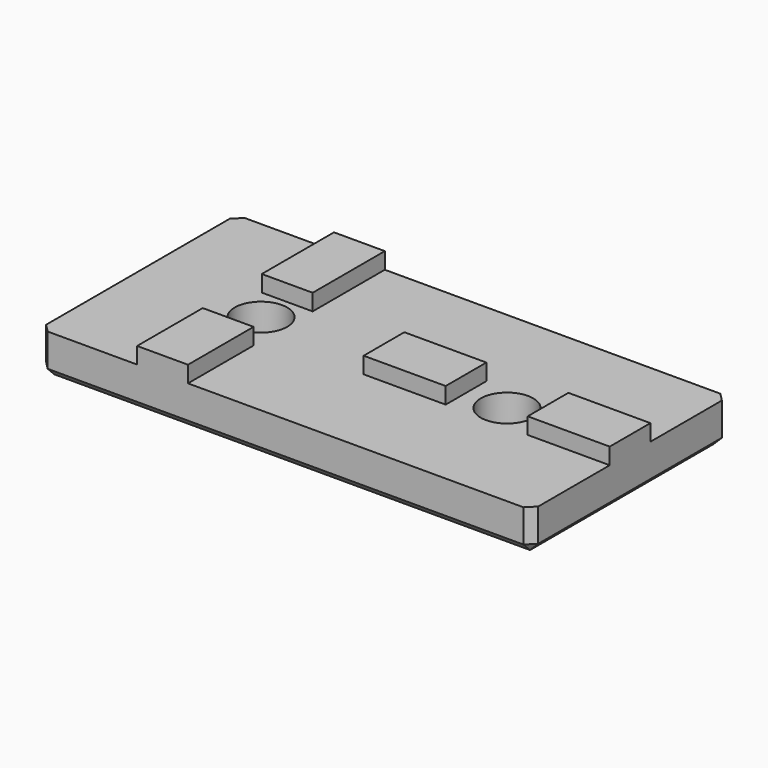
from build123d import *

# Parameters (mm, degrees)
BOX001_W          = 6.2
BOX001_H          = 10
BOX001_DEPTH      = 3
BOX004_W          = 10
BOX004_H          = 6.2
BOX004_DEPTH      = 3
BOX003_W          = 10
BOX003_H          = 6.2
BOX003_DEPTH      = 3
BOX002_W          = 6.2
BOX002_H          = 11
BOX002_DEPTH      = 3
CYLINDER001_R     = 3.2
CYLINDER001_DEPTH = 10
CYLINDER002_R     = 7
CYLINDER002_DEPTH = 1
CYLINDER003_R     = 7
CYLINDER003_DEPTH = 1
CYLINDER_R        = 3.2
CYLINDER_DEPTH    = 10
BOX_W             = 60
BOX_H             = 30
BOX_DEPTH         = 5
CHAMFER_SIZE      = 1


with BuildPart() as cube001:
    # Box001 → Box001 (new body)
    with BuildSketch(Plane(origin=(11.9, 0, 4), x_dir=(1, 0, 0), z_dir=(0, 0, 1))):
        with Locations((3.1, 5)):
            Rectangle(BOX001_W, BOX001_H)
    extrude(amount=BOX001_DEPTH)


with BuildPart() as cube004:
    # Box004 → Box004 (new body)
    with BuildSketch(Plane(origin=(30, 11.9, 4), x_dir=(1, 0, 0), z_dir=(0, 0, 1))):
        with Locations((5, 3.1)):
            Rectangle(BOX004_W, BOX004_H)
    extrude(amount=BOX004_DEPTH)


with BuildPart() as cube003:
    # Box003 → Box003 (new body)
    with BuildSketch(Plane(origin=(50, 11.9, 4), x_dir=(1, 0, 0), z_dir=(0, 0, 1))):
        with Locations((5, 3.1)):
            Rectangle(BOX003_W, BOX003_H)
    extrude(amount=BOX003_DEPTH)


with BuildPart() as fusion001:
    # Box002 → Box002 (new body)
    with BuildSketch(Plane(origin=(11.9, 19, 4), x_dir=(1, 0, 0), z_dir=(0, 0, 1))):
        with Locations((3.1, 5.5)):
            Rectangle(BOX002_W, BOX002_H)
    extrude(amount=BOX002_DEPTH)

    # Fusion001: union Cube001, Cube004, Cube003
    add(cube001.part)
    add(cube004.part)
    add(cube003.part)


with BuildPart() as cylinder001:
    # Cylinder001 → Cylinder001 (new body)
    with BuildSketch(Plane(origin=(45, 15, 0), x_dir=(1, 0, 0), z_dir=(0, 0, 1))):
        Circle(CYLINDER001_R)
    extrude(amount=CYLINDER001_DEPTH)


with BuildPart() as cylinder002:
    # Cylinder002 → Cylinder002 (new body)
    with BuildSketch(Plane(origin=(15, 15, 0), x_dir=(1, 0, 0), z_dir=(0, 0, 1))):
        Circle(CYLINDER002_R)
    extrude(amount=CYLINDER002_DEPTH)


with BuildPart() as cylinder003:
    # Cylinder003 → Cylinder003 (new body)
    with BuildSketch(Plane(origin=(45, 15, 0), x_dir=(1, 0, 0), z_dir=(0, 0, 1))):
        Circle(CYLINDER003_R)
    extrude(amount=CYLINDER003_DEPTH)


with BuildPart() as fusion:
    # Cylinder → Cylinder (new body)
    with BuildSketch(Plane(origin=(15, 15, 0), x_dir=(1, 0, 0), z_dir=(0, 0, 1))):
        Circle(CYLINDER_R)
    extrude(amount=CYLINDER_DEPTH)

    # Fusion: union Cylinder001, Cylinder002, Cylinder003
    add(cylinder001.part)
    add(cylinder002.part)
    add(cylinder003.part)


with BuildPart() as i_shape:
    # Box → Box (new body)
    with BuildSketch(Plane.XY):
        with Locations((30, 15)):
            Rectangle(BOX_W, BOX_H)
    extrude(amount=BOX_DEPTH)

    # Chamfer
    chamfer_edges = [i_shape.edges().sort_by_distance(p)[0] for p in [
        (0, 0, 2.5),
        (0, 30, 2.5),
        (0, 15, 0),
        (60, 0, 2.5),
        (60, 30, 2.5),
        (60, 15, 0),
        (30, 0, 0),
        (30, 30, 0),
    ]]
    chamfer(chamfer_edges, length=CHAMFER_SIZE)

    # Cut: cut Fusion
    add(fusion.part, mode=Mode.SUBTRACT)

    # Fusion006: union Fusion001
    add(fusion001.part)


solid = i_shape.part
